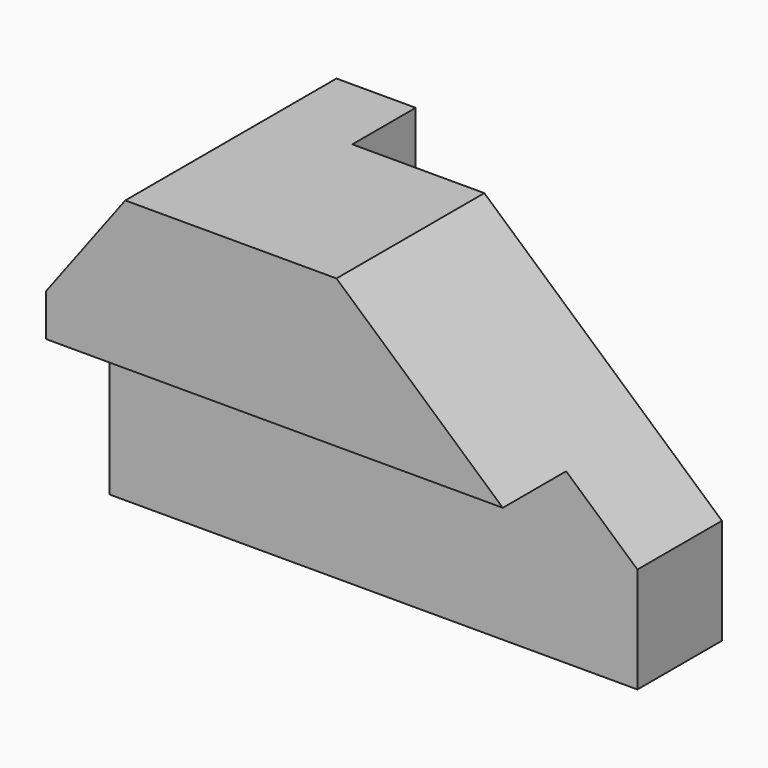
from build123d import *

# Parameters (mm, degrees)
F0_W     = 100
F0_H     = 50
F1_DEPTH = 60
F3_DEPTH = 50.001
F4_W     = 100
F4_H     = 32
F5_DEPTH = 15
F6_W     = 70
F6_H     = 15
F7_DEPTH = 60.001


with BuildPart() as f1:
    # F0 (on Top) → F1 (new body)
    with BuildSketch(Plane.XY):
        with Locations((50, 25)):
            Rectangle(F0_W, F0_H)
    extrude(amount=F1_DEPTH)

    # F2 (on face) → F3 (cut, through all)
    with BuildSketch(Plane.XZ):
        Polygon((15, 60), (0, 60), (0, 40), align=None)
        Polygon((55, 60), (100, 20), (100, 60), align=None)
    extrude(amount=-F3_DEPTH, mode=Mode.SUBTRACT)

    # F4 (on face) → F5 (cut)
    with BuildSketch(Plane.XZ):
        with Locations((50, 16)):
            Rectangle(F4_W, F4_H)
    extrude(amount=-F5_DEPTH, mode=Mode.SUBTRACT)

    # F6 (on face) → F7 (cut, through all)
    with BuildSketch(Plane(origin=(0, 0, 0), x_dir=(1, 0, 0), z_dir=(0, 0, -1))):
        with Locations((65, -42.5)):
            Rectangle(F6_W, F6_H)
    extrude(amount=-F7_DEPTH, mode=Mode.SUBTRACT)


solid = f1.part
